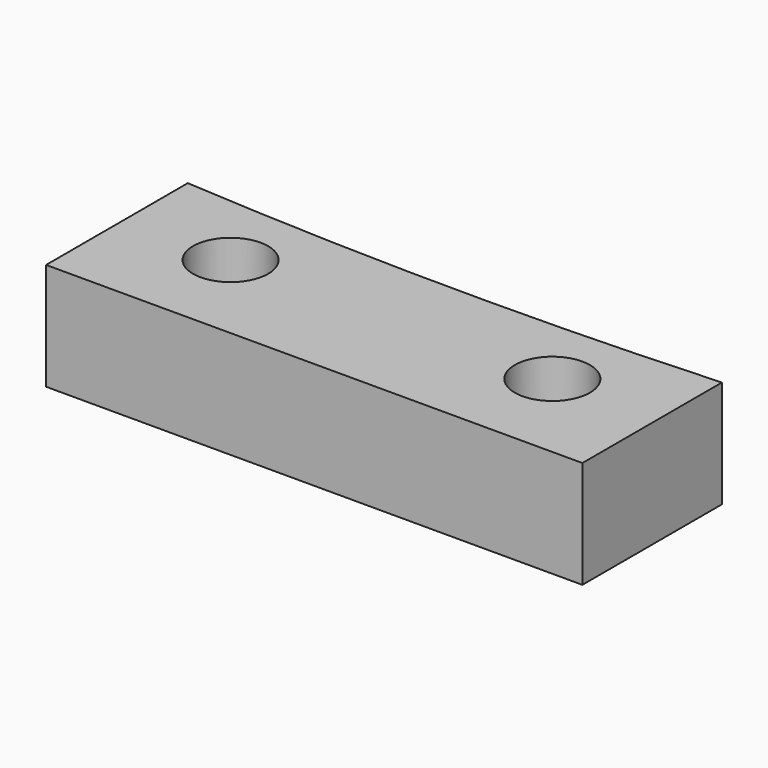
from build123d import *

# Parameters (mm, degrees)
CYLINDER035_R     = 1.75
CYLINDER035_DEPTH = 10
CYLINDER036_R     = 1.75
CYLINDER036_DEPTH = 10
CYLINDER033_R     = 200
CYLINDER033_DEPTH = 36
CYLINDER031_R     = 200
CYLINDER031_DEPTH = 53
BOX008_W          = 60
BOX008_H          = 99
BOX008_DEPTH      = 29
CYLINDER032_R     = 310
CYLINDER032_DEPTH = 77
CYLINDER030_R     = 700
CYLINDER030_DEPTH = 36
CYLINDER034_R     = 700
CYLINDER034_DEPTH = 36
FILLET006_R       = 4.2
BOX004_W          = 25
BOX004_H          = 10
BOX004_DEPTH      = 5


with BuildPart() as cylinder035:
    # Cylinder035 → Cylinder035 (new body)
    with BuildSketch(Plane(origin=(7.5, -47.5, 0), x_dir=(1, 0, 0), z_dir=(0, 0, 1))):
        Circle(CYLINDER035_R)
    extrude(amount=CYLINDER035_DEPTH)


with BuildPart() as screw_holes001:
    # Cylinder036 → Cylinder036 (new body)
    with BuildSketch(Plane(origin=(-7.5, -47.5, 0), x_dir=(1, 0, 0), z_dir=(0, 0, 1))):
        Circle(CYLINDER036_R)
    extrude(amount=CYLINDER036_DEPTH)

    # Fusion001: union Cylinder035
    add(cylinder035.part)


with BuildPart() as screw_holes001_1:
    # Fusion001 placement: moved
    add(screw_holes001.part.moved(Location((0, -1, 1))))


with BuildPart() as short_side_circle018:
    # Cylinder033 → Cylinder033 (new body)
    with BuildSketch(Plane(origin=(0, -154.8, 0), x_dir=(1, 0, 0), z_dir=(0, 0, 1))):
        Circle(CYLINDER033_R)
    extrude(amount=CYLINDER033_DEPTH)


with BuildPart() as short_side_circle016:
    # Cylinder031 → Cylinder031 (new body)
    with BuildSketch(Plane(origin=(1, 154.8, 0), x_dir=(1, 0, 0), z_dir=(0, 0, 1))):
        Circle(CYLINDER031_R)
    extrude(amount=CYLINDER031_DEPTH)


with BuildPart() as common028:
    # Box008 → Box008 (new body)
    with BuildSketch(Plane(origin=(-29.77, -50.31, 14), x_dir=(1, 0, 0), z_dir=(0, 0, 1))):
        with Locations((30, 49.5)):
            Rectangle(BOX008_W, BOX008_H)
    extrude(amount=BOX008_DEPTH)

    # Common028: intersect Short side circle016
    add(short_side_circle016.part, mode=Mode.INTERSECT)


with BuildPart() as common029:
    # Cylinder032 → Cylinder032 (new body)
    with BuildSketch(Plane(origin=(-32, 1, -262.75), x_dir=(0, 0, -1), z_dir=(1, 0, 0))):
        Circle(CYLINDER032_R)
    extrude(amount=CYLINDER032_DEPTH)

    # Common029: intersect Common028
    add(common028.part, mode=Mode.INTERSECT)


with BuildPart() as common030:
    # Cylinder030 → Cylinder030 (new body)
    with BuildSketch(Plane(origin=(671.8, 0, 0), x_dir=(1, 0, 0), z_dir=(0, 0, 1))):
        Circle(CYLINDER030_R)
    extrude(amount=CYLINDER030_DEPTH)

    # Common030: intersect Common029
    add(common029.part, mode=Mode.INTERSECT)


with BuildPart() as pad_cut002:
    # Cylinder034 → Cylinder034 (new body)
    with BuildSketch(Plane(origin=(-671.8, 0, 0), x_dir=(1, 0, 0), z_dir=(0, 0, 1))):
        Circle(CYLINDER034_R)
    extrude(amount=CYLINDER034_DEPTH)

    # Common031: intersect Common030
    add(common030.part, mode=Mode.INTERSECT)

    # Common032: intersect Short side circle018
    add(short_side_circle018.part, mode=Mode.INTERSECT)

    # Fillet006
    fillet006_edges = [pad_cut002.edges().sort_by_distance(p)[0] for p in [
        (26.845655, -43.522974, 25),
        (26.85399, 43.388958, 25),
        (-26.862626, -43.249676, 25),
        (-26.85399, 43.388958, 25),
    ]]
    fillet(fillet006_edges, radius=FILLET006_R)


with BuildPart() as pad_cut002_1:
    # Fillet006 placement: moved
    add(pad_cut002.part.moved(Location((0, 0, -15))))


with BuildPart() as obj1:
    # Box004 → Box004 (new body)
    with BuildSketch(Plane(origin=(-12.5, -53, 4), x_dir=(1, 0, 0), z_dir=(0, 0, 1))):
        with Locations((12.5, 5)):
            Rectangle(BOX004_W, BOX004_H)
    extrude(amount=BOX004_DEPTH)

    # Cut006: cut Pad cut002
    add(pad_cut002_1.part, mode=Mode.SUBTRACT)

    # Cut007: cut Screw holes001
    add(screw_holes001_1.part, mode=Mode.SUBTRACT)


solid = obj1.part
